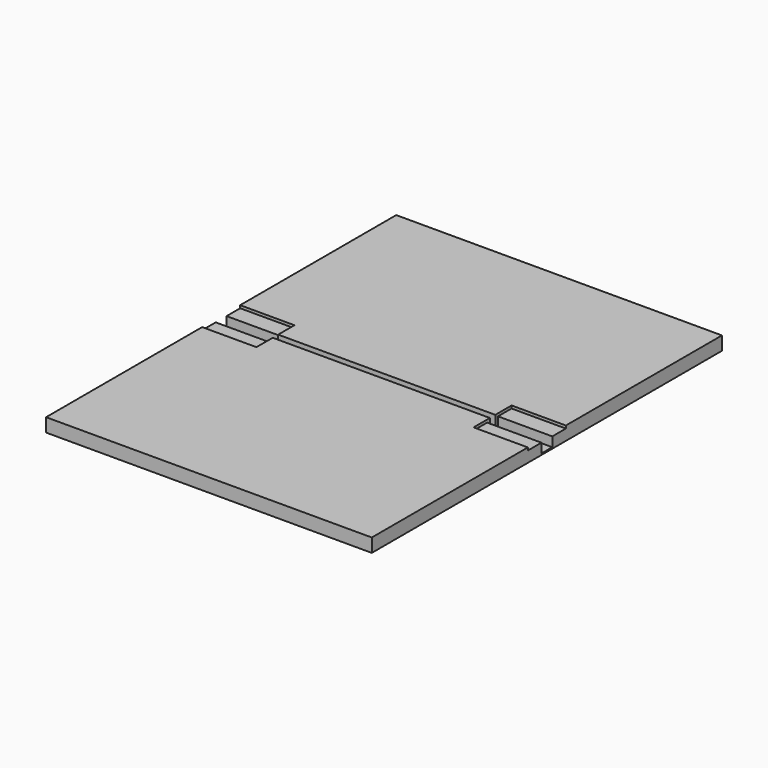
from build123d import *

# Parameters (mm, degrees)
F0_W     = 50.8
F0_H     = 3.175
F1_DEPTH = 1.27
F2_DEPTH = 12.7
F0_H_2   = 15.875
F3_DEPTH = 10.16


with BuildPart() as f1:
    # F0 (on Top) → F1 (new body)
    with BuildSketch(Plane.XY):
        with Locations((-127, 4.7625)):
            Rectangle(F0_W, F0_H)
        Polygon((101.6, -3.175), (152.4, -3.175), (152.4, 3.175), (101.6, 3.175), (-101.6, 3.175), (-152.4, 3.175), (-152.4, 0), (-152.4, -3.175), (-101.6, -3.175), align=None)
        with Locations((-127, -4.7625)):
            Rectangle(F0_W, F0_H)
        with Locations((127, -4.7625)):
            Rectangle(F0_W, F0_H)
        with Locations((127, 4.7625)):
            Rectangle(F0_W, F0_H)
    extrude(amount=F1_DEPTH)

    # F0 (on Top) → F2 (join)
    with BuildSketch(Plane.XY):
        Polygon((-101.6, 3.175), (101.6, 3.175), (101.6, 6.35), (101.6, 22.225), (152.4, 22.225), (152.4, 204.7875), (-152.4, 204.7875), (-152.4, 22.225), (-101.6, 22.225), (-101.6, 6.35), align=None)
        Polygon((-152.4, -204.7875), (152.4, -204.7875), (152.4, -22.225), (101.6, -22.225), (101.6, -6.35), (101.6, -3.175), (-101.6, -3.175), (-101.6, -6.35), (-101.6, -22.225), (-152.4, -22.225), align=None)
    extrude(amount=F2_DEPTH)

    # F0 (on Top) → F3 (join)
    with BuildSketch(Plane.XY):
        with Locations((-127, 14.2875)):
            Rectangle(F0_W, F0_H_2)
        with Locations((-127, -14.2875)):
            Rectangle(F0_W, F0_H_2)
        with Locations((127, -14.2875)):
            Rectangle(F0_W, F0_H_2)
        with Locations((127, 14.2875)):
            Rectangle(F0_W, F0_H_2)
    extrude(amount=F3_DEPTH)


solid = f1.part
